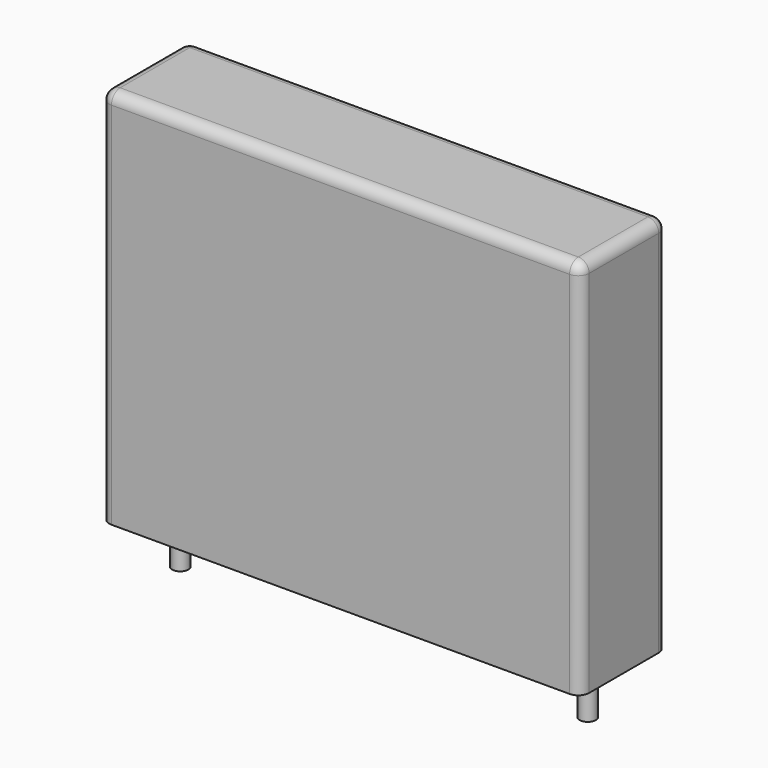
from build123d import *

# Parameters (mm, degrees)
SKETCH_W     = 26.5
SKETCH_H     = 6
PAD_DEPTH    = 21
FILLET_R     = 0.6
SKETCH001_R  = 0.45
PAD001_DEPTH = 3.2


with BuildPart() as fillet_body:
    # Sketch → Pad (new body)
    with BuildSketch(Plane.XY.offset(0.1)):
        with Locations((11.25, 0)):
            Rectangle(SKETCH_W, SKETCH_H)
    extrude(amount=PAD_DEPTH)

    # Fillet
    fillet_edges = [fillet_body.edges().sort_by_distance(p)[0] for p in [
        (-2, 0, 21.1),
        (-2, -3, 10.6),
        (11.25, -3, 21.1),
        (24.5, -3, 10.6),
        (24.5, 0, 21.1),
        (24.5, 3, 10.6),
        (11.25, 3, 21.1),
        (-2, 3, 10.6),
    ]]
    fillet(fillet_edges, radius=FILLET_R)


with BuildPart() as pad001:
    # Sketch001 → Pad001 (new body)
    with BuildSketch(Plane.XY.offset(0.5)):
        Circle(SKETCH001_R)
        with Locations((22.5, 0)):
            Circle(SKETCH001_R)
    extrude(amount=-PAD001_DEPTH)


solid = Compound([fillet_body.part, pad001.part])
